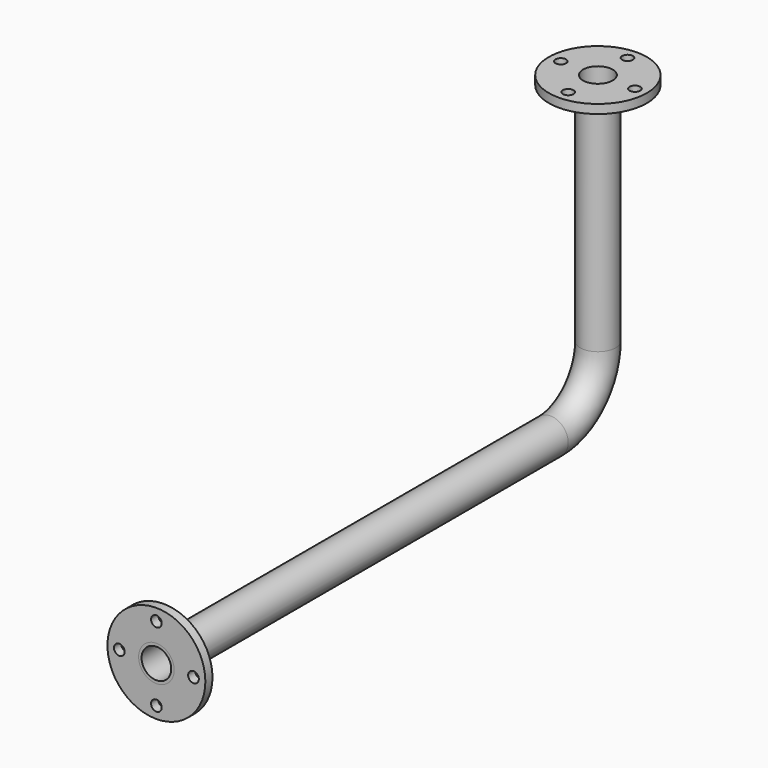
from build123d import *

# Parameters (mm, degrees)
F1_R     = 30
F1_R_2   = 25
F3_R     = 82.5
F3_R_2   = 9
F3_R_3   = 25
F4_DEPTH = 15
F5_R     = 82.5
F5_R_2   = 9
F5_R_3   = 25
F6_DEPTH = 15


with BuildPart() as f2:
    # F2: sweep along a path in F0
    with BuildLine(Plane.YZ) as f2_path:
        Line((0, 0), (0, -395))
        ThreePointArc((0, -395), (-29.289322, -465.710678), (-100, -495))
        Line((-100, -495), (-930, -495))
    # F1 (on Top) → F2 (sweep)
    with BuildSketch(Plane.XY):
        Circle(F1_R)
        Circle(F1_R_2, mode=Mode.SUBTRACT)
    sweep(path=f2_path.line)

    # F3 (on Top) → F4 (join)
    with BuildSketch(Plane.XY):
        Circle(F3_R)
        with Locations((0, -62.5)):
            Circle(F3_R_2, mode=Mode.SUBTRACT)
        with Locations((-62.5, 0)):
            Circle(F3_R_2, mode=Mode.SUBTRACT)
        Circle(F3_R_3, mode=Mode.SUBTRACT)
        with Locations((62.5, 0)):
            Circle(F3_R_2, mode=Mode.SUBTRACT)
        with Locations((0, 62.5)):
            Circle(F3_R_2, mode=Mode.SUBTRACT)
    extrude(amount=-F4_DEPTH)

    # F5 (on face) → F6 (join)
    with BuildSketch(Plane.XZ.offset(930)):
        with Locations((0, -495)):
            Circle(F5_R)
        with Locations((-62.5, -495)):
            Circle(F5_R_2, mode=Mode.SUBTRACT)
        with Locations((0, -557.5)):
            Circle(F5_R_2, mode=Mode.SUBTRACT)
        with Locations((0, -495)):
            Circle(F5_R_3, mode=Mode.SUBTRACT)
        with Locations((0, -432.5)):
            Circle(F5_R_2, mode=Mode.SUBTRACT)
        with Locations((62.5, -495)):
            Circle(F5_R_2, mode=Mode.SUBTRACT)
    extrude(amount=-F6_DEPTH)


solid = f2.part
